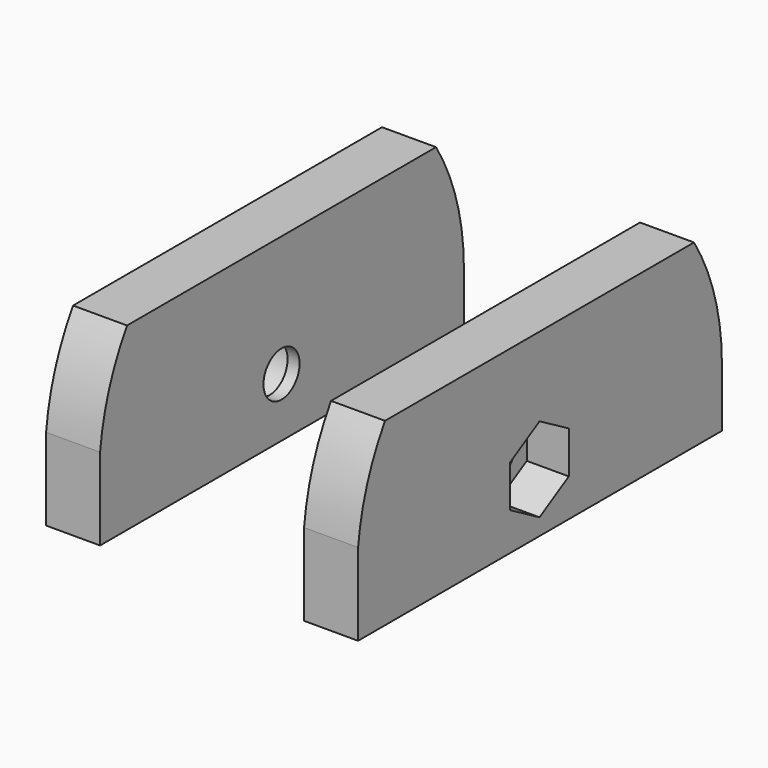
from build123d import *

# Parameters (mm, degrees)
BOX_W                 = 17
BOX_H                 = 50
BOX_DEPTH             = 50
SKETCH005_W           = 26
SKETCH005_H           = 38
PAD001_DEPTH          = 15
SKETCH006_R           = 1.88
POCKET005_DEPTH       = 26.001
SKETCH007_R           = 3.1
POCKET006_DEPTH       = 3.5
POCKET007_DEPTH       = 3.5
POCKET008_DEPTH       = 26.001
CLONE_PLACEMENT_ANGLE = 180


with BuildPart() as cube:
    # Box → Box (new body)
    with BuildSketch(Plane(origin=(-8.5, -31, -5), x_dir=(1, 0, 0), z_dir=(0, 0, 1))):
        with Locations((8.5, 25)):
            Rectangle(BOX_W, BOX_H)
    extrude(amount=BOX_DEPTH)


with BuildPart() as clone_of_wheel_shaft_holder:
    # Sketch005 → Pad001 (new body)
    with BuildSketch(Plane.XY):
        with Locations((0, -6.6)):
            Rectangle(SKETCH005_W, SKETCH005_H)
    extrude(amount=PAD001_DEPTH)

    # Sketch006 → Pocket005 (cut, through all)
    with BuildSketch(Plane.YZ.offset(13)):
        with Locations((-6.5, 4.9)):
            Circle(SKETCH006_R)
    extrude(amount=-POCKET005_DEPTH, mode=Mode.SUBTRACT)

    # Sketch007 → Pocket006 (cut)
    with BuildSketch(Plane.YZ.offset(13)):
        with Locations((-6.5, 4.9)):
            Circle(SKETCH007_R)
    extrude(amount=-POCKET006_DEPTH, mode=Mode.SUBTRACT)

    # Sketch008 → Pocket007 (cut)
    with BuildSketch(Plane(origin=(-13, 0, 0), x_dir=(0, -1, 0), z_dir=(-1, 0, 0))):
        Polygon((6.5, 8.421837), (3.45, 6.660918), (3.45, 3.139082), (6.5, 1.378163), (9.55, 3.139082), (9.55, 6.660918), align=None)
    extrude(amount=-POCKET007_DEPTH, mode=Mode.SUBTRACT)

    # Sketch009 → Pocket008 (cut, through all)
    with BuildSketch(Plane.YZ.offset(13)):
        with BuildLine():
            ThreePointArc((-22.5, 15.146951), (-24.734583, 10.238539), (-25.5, 4.9))
            Line((-25.5, 4.9), (-25.5, 0))
            Line((-25.5, 0), (-29.5, 0))
            Line((-29.5, 0), (-29.5, 4.9))
            Line((-29.5, 4.9), (-29.5, 15.146951))
            Line((-29.5, 15.146951), (-22.5, 15.146951))
        make_face()
        with BuildLine():
            ThreePointArc((12.5, 4.9), (11.734583, 10.238539), (9.5, 15.146951))
            Line((9.5, 15.146951), (16.5, 15.146951))
            Line((16.5, 15.146951), (16.5, 0))
            Line((16.5, 0), (12.5, 0))
            Line((12.5, 4.9), (12.5, 0))
        make_face()
    extrude(amount=-POCKET008_DEPTH, mode=Mode.SUBTRACT)

    # Cut: cut Cube
    add(cube.part, mode=Mode.SUBTRACT)


with BuildPart() as clone_of_wheel_shaft_holder_1:
    # Cut placement: moved
    add(clone_of_wheel_shaft_holder.part.moved(Location((51, 0, 0))))


with BuildPart() as clone_of_wheel_shaft_holder_2:
    # Clone placement: moved
    add(clone_of_wheel_shaft_holder_1.part.moved(Location((0, -13.1, 0))).rotate(Axis((0, -13.1, 0), (0, 0, 1)), CLONE_PLACEMENT_ANGLE))


solid = clone_of_wheel_shaft_holder_2.part
